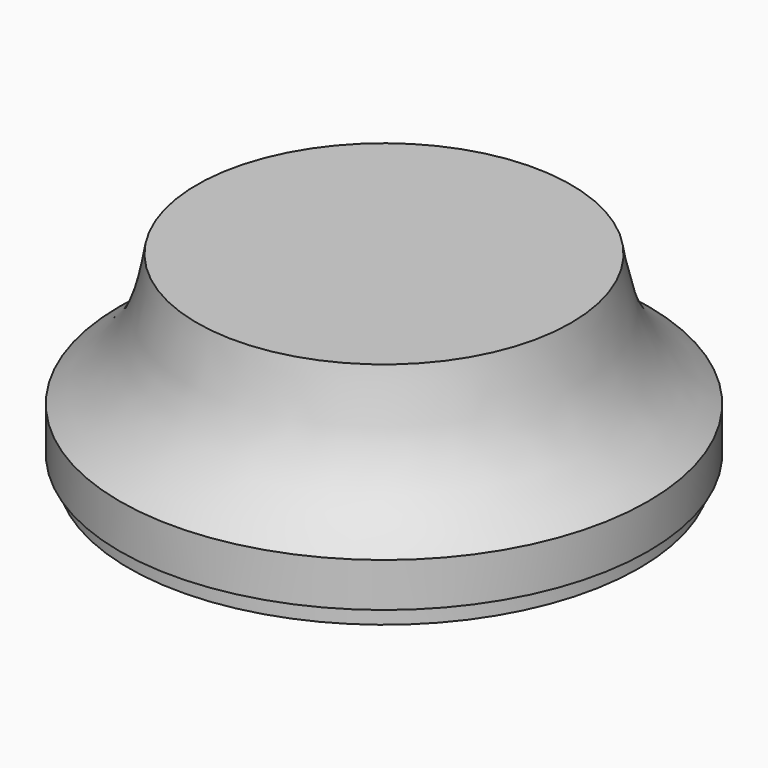
from build123d import *

# Parameters (mm, degrees)
F2_T     = -2
F3_R     = 29
F3_R_2   = 28
F4_DEPTH = 2


with BuildPart() as f1:
    # F0 (on Front) → F1 (revolve)
    with BuildSketch(Plane.XZ):
        with BuildLine():
            Line((0, 20), (0, 0))
            Line((0, 0), (30, 0))
            Line((30, 0), (30, 5))
            add(Edge.make_bspline(
                [(30, 5), (23.725748, 9.086438), (22.380861, 13.243363), (21.25, 20)],
                knots=[0, 0, 0, 0, 17.365555, 17.365555, 17.365555, 17.365555], degree=3))
            Line((21.25, 20), (0, 20))
        make_face()
    revolve(axis=Axis((0, 0, 10), (0, 0, 1)))

    # F2
    f2_openings = [f1.faces().sort_by_distance(p)[0] for p in [
        (0, 0, 0),
    ]]
    offset(amount=F2_T, openings=f2_openings)

    # F3 (on face) → F4 (join)
    with BuildSketch(Plane(origin=(0, 0, 0), x_dir=(1, 0, 0), z_dir=(0, 0, -1))):
        Circle(F3_R)
        Circle(F3_R_2, mode=Mode.SUBTRACT)
    extrude(amount=F4_DEPTH)


solid = f1.part
